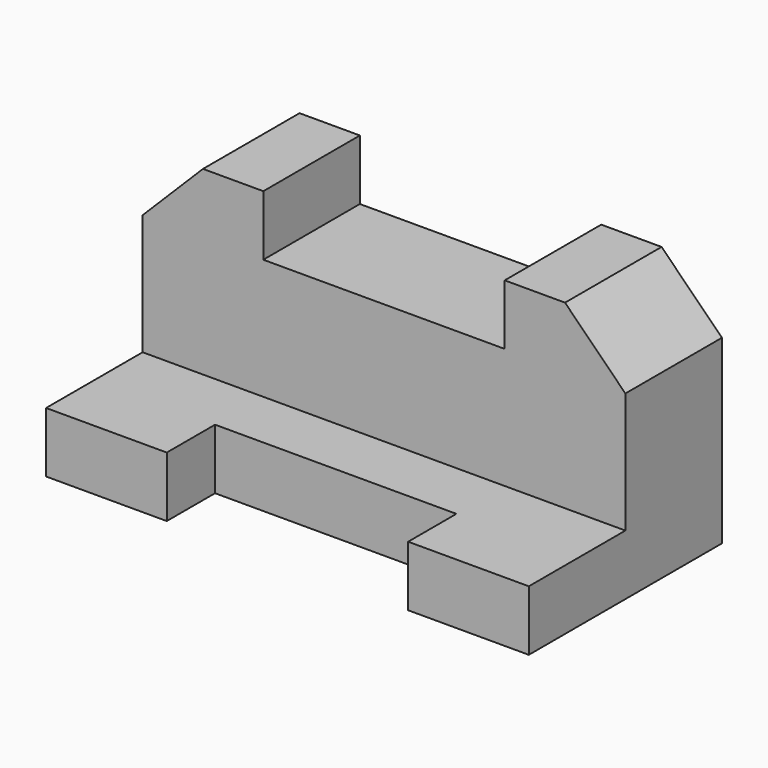
from build123d import *

# Parameters (mm, degrees)
F0_W     = 203.2
F0_H     = 25.4
F1_DEPTH = 101.6
F2_W     = 101.6
F2_H     = 25.4
F3_DEPTH = 25.4
F4_W     = 50.8
F4_H     = 50.8
F5_DEPTH = 203.2
F6_W     = 50.8
F6_H     = 50.8
F7_DEPTH = 25.4
F9_DEPTH = 50.8


with BuildPart() as f1:
    # F0 (on Front) → F1 (new body)
    with BuildSketch(Plane.XZ):
        with Locations((29.834592, -20.465738)):
            Rectangle(F0_W, F0_H)
    extrude(amount=F1_DEPTH)

    # F2 (on face) → F3 (cut)
    with BuildSketch(Plane.XY.offset(-7.765738)):
        with Locations((29.834592, -88.9)):
            Rectangle(F2_W, F2_H)
    extrude(amount=-F3_DEPTH, mode=Mode.SUBTRACT)

    # F4 (on face) → F5 (join)
    with BuildSketch(Plane.YZ.offset(131.434592)):
        with Locations((-25.4, 17.634262)):
            Rectangle(F4_W, F4_H)
    extrude(amount=-F5_DEPTH)

    # F6 (on face) → F7 (join)
    with BuildSketch(Plane.XY.offset(43.034262)):
        with Locations((-46.365408, -25.4)):
            Rectangle(F6_W, F6_H)
        with Locations((106.034592, -25.4)):
            Rectangle(F6_W, F6_H)
    extrude(amount=F7_DEPTH)

    # F8 (on face) → F9 (cut)
    with BuildSketch(Plane.XZ.offset(50.8)):
        Polygon((106.034592, 68.434262), (131.434592, 43.034262), (131.434592, 68.434262), align=None)
        Polygon((-71.765408, 43.034262), (-46.365408, 68.434262), (-71.765408, 68.434262), align=None)
    extrude(amount=-F9_DEPTH, mode=Mode.SUBTRACT)


solid = f1.part
